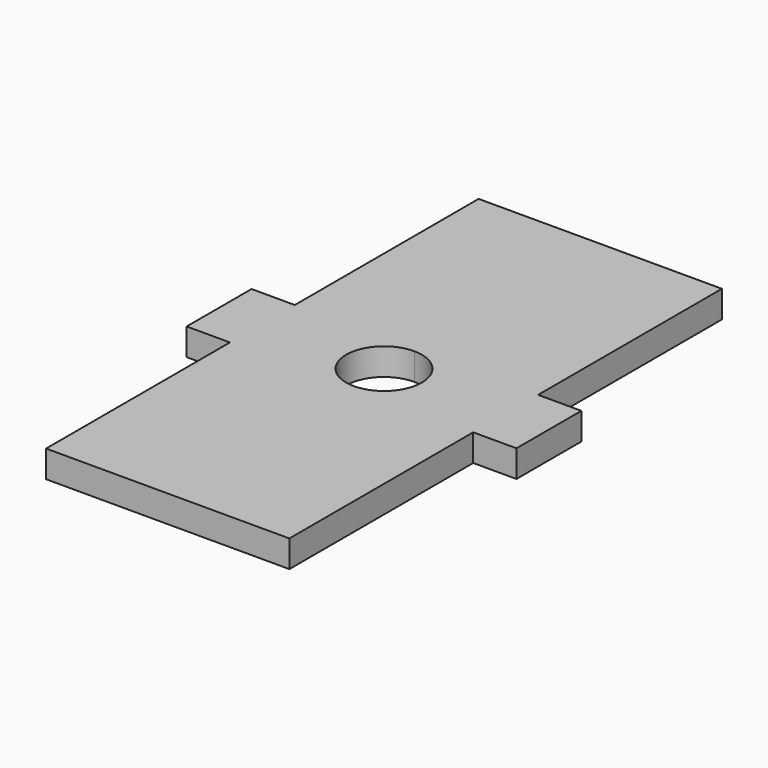
from build123d import *

# Parameters (mm, degrees)
F1_DEPTH = 5


with BuildPart() as f1:
    # F0 (on Top) → F1 (new body)
    with BuildSketch(Plane.XY):
        with BuildLine():
            Line((-22.5, 7.5), (-30.5, 7.5))
            Line((-30.5, 7.5), (-30.5, -7.5))
            Line((-30.5, -7.5), (-22.5, -7.5))
            Line((-22.5, -7.5), (-22.5, -50))
            Line((-22.5, -50), (0, -50))
            Line((0, -50), (0, -7))
            ThreePointArc((0, -7), (-7, 0), (0, 7))
            Line((0, 7), (0, 50))
            Line((0, 50), (-22.5, 50))
            Line((-22.5, 50), (-22.5, 7.5))
        make_face()
        with BuildLine():
            Line((22.5, 50), (0, 50))
            Line((0, 50), (0, 7))
            ThreePointArc((0, 7), (4.949747, 4.949747), (7, 0))
            ThreePointArc((7, 0), (4.949747, -4.949747), (0, -7))
            Line((0, -7), (0, -50))
            Line((0, -50), (22.5, -50))
            Line((22.5, -50), (22.5, -7.5))
            Line((22.5, -7.5), (30.5, -7.5))
            Line((30.5, -7.5), (30.5, 7.5))
            Line((30.5, 7.5), (22.5, 7.5))
            Line((22.5, 7.5), (22.5, 50))
        make_face()
    extrude(amount=F1_DEPTH)


solid = f1.part
